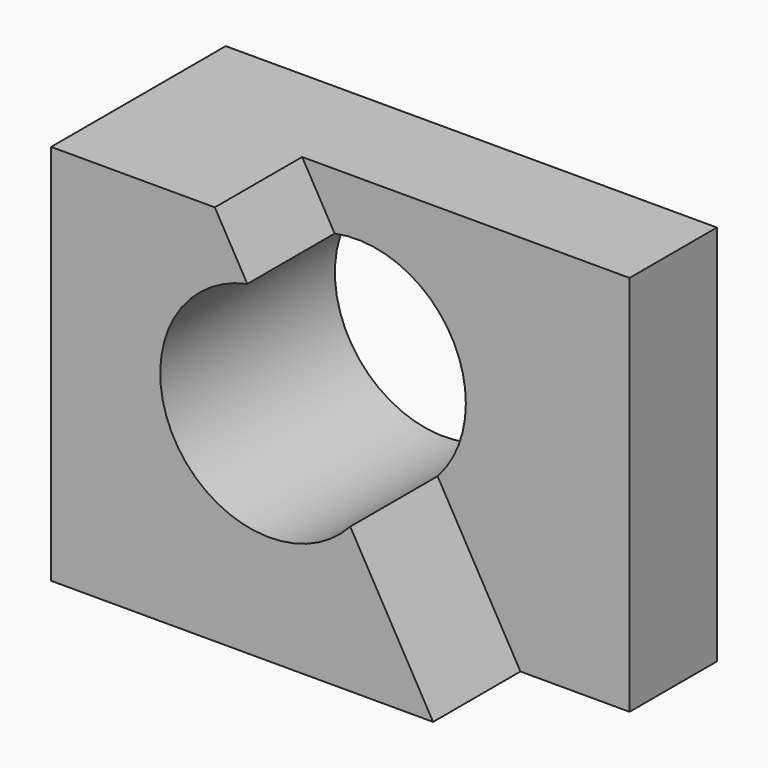
from build123d import *

# Parameters (mm, degrees)
F0_W     = 57.15
F0_H     = 44.45
F1_DEPTH = 25.4
F2_W     = 38.1
F2_H     = 12.7
F3_DEPTH = 44.45
F5_DEPTH = 12.7
F6_R     = 12.7
F7_DEPTH = 41.656


with BuildPart() as f1:
    # F0 (on Front) → F1 (new body)
    with BuildSketch(Plane.XZ):
        with Locations((28.575, 22.225)):
            Rectangle(F0_W, F0_H)
    extrude(amount=F1_DEPTH)

    # F2 (on face) → F3 (cut)
    with BuildSketch(Plane.XY.offset(44.45)):
        with Locations((38.1, -19.05)):
            Rectangle(F2_W, F2_H)
    extrude(amount=-F3_DEPTH, mode=Mode.SUBTRACT)

    # F4 (on face) → F5 (join)
    with BuildSketch(Plane.XZ.offset(12.7)):
        Polygon((44.45, 0), (19.05, 44.45), (19.05, 0), align=None)
    extrude(amount=F5_DEPTH)

    # F6 (on Front) → F7 (cut)
    with BuildSketch(Plane.XZ):
        with Locations((25.4, 25.4)):
            Circle(F6_R)
    extrude(amount=F7_DEPTH, mode=Mode.SUBTRACT)


solid = f1.part
